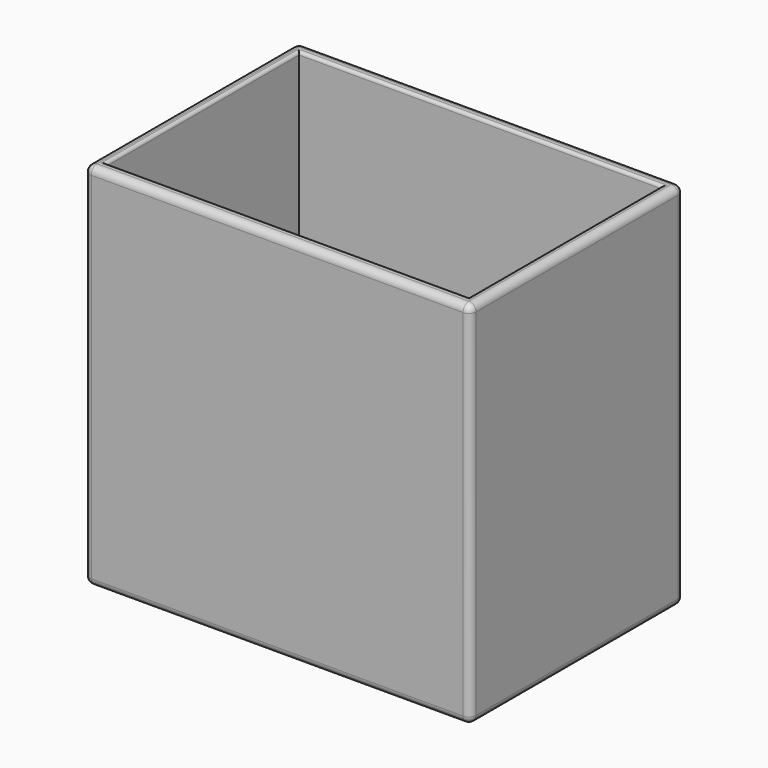
from build123d import *

# Parameters (mm, degrees)
F0_W     = 30.4
F0_H     = 20.2
F1_DEPTH = 16
F0_W_2   = 32.4
F0_H_2   = 22.4
F2_DEPTH = 16
F3_DEPTH = 15
F4_R     = 0.25
F5_R     = 0.25
F6_R     = 0.6


with BuildPart() as f1:
    # F0 (on Top) → F1 (new body)
    with BuildSketch(Plane.XY):
        Rectangle(F0_W, F0_H)
    extrude(amount=-F1_DEPTH)

    # F0 (on Top) → F2 (join)
    with BuildSketch(Plane.XY):
        Rectangle(F0_W_2, F0_H_2)
        Rectangle(F0_W, F0_H, mode=Mode.SUBTRACT)
    extrude(amount=-F2_DEPTH)

    # F0 (on Top) → F3 (join)
    with BuildSketch(Plane.XY):
        Rectangle(F0_W_2, F0_H_2)
        Rectangle(F0_W, F0_H, mode=Mode.SUBTRACT)
    extrude(amount=F3_DEPTH)

    # F4
    f4_edges = [f1.edges().sort_by_distance(p)[0] for p in [
        (-15.2, 0, 15),
    ]]
    fillet(f4_edges, radius=F4_R)

    # F5
    f5_edges = [f1.edges().sort_by_distance(p)[0] for p in [
        (0, 10.1, 15),
        (15.2, 0, 15),
        (0, -10.1, 15),
    ]]
    fillet(f5_edges, radius=F5_R)

    # F6
    f6_edges = [f1.edges().sort_by_distance(p)[0] for p in [
        (0, -11.2, 15),
        (-16.2, 0, 15),
        (0, 11.2, 15),
        (16.2, 0, 15),
        (-16.2, -11.2, -0.5),
        (16.2, -11.2, -0.5),
        (16.2, 11.2, -0.5),
        (-16.2, 11.2, -0.5),
        (0, -11.2, -16),
        (16.2, 0, -16),
        (0, 11.2, -16),
        (-16.2, 0, -16),
    ]]
    fillet(f6_edges, radius=F6_R)


solid = f1.part
